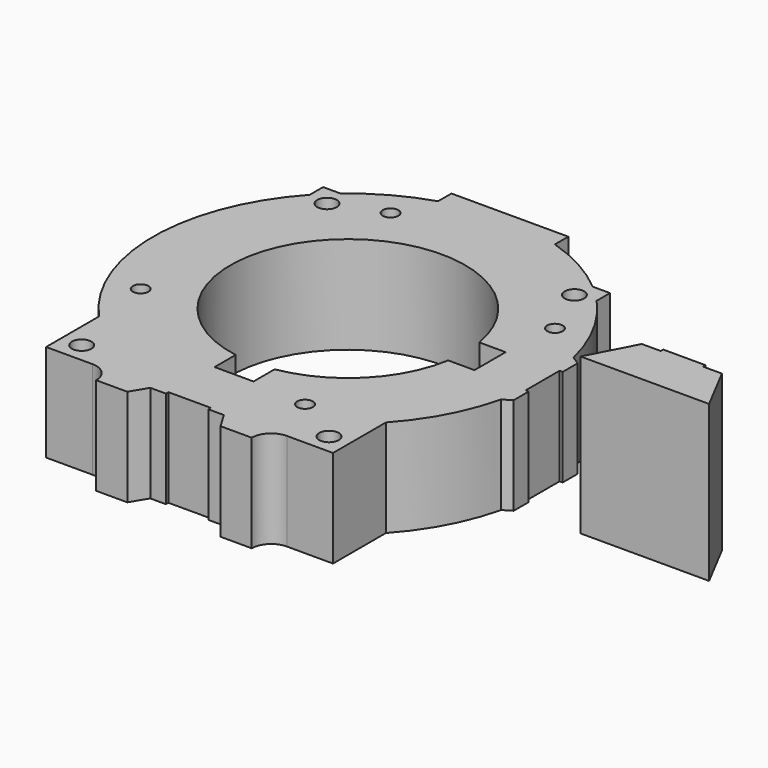
from build123d import *

# Parameters (mm, degrees)
F0_R     = 2.5
F0_R_2   = 2
F1_DEPTH = 25
F2_DEPTH = 40


with BuildPart() as f1:
    # F0 (on Top) → F1 (new body)
    with BuildSketch(Plane.XY):
        with BuildLine():
            Line((36.83, -50.8), (36.83, -33.816432))
            ThreePointArc((36.83, -33.816432), (44.151907, -23.465061), (48.634649, -11.604781))
            Line((48.634649, -11.604781), (50.8, -10.279))
            Line((50.8, -10.279), (50.8, -5.445))
            Line((50.8, -5.445), (50, -5.445))
            Line((50, -5.445), (50, 0))
            Line((50, 0), (50, 5.445))
            Line((50, 5.445), (50.8, 5.445))
            Line((50.8, 5.445), (50.8, 10.279))
            Line((50.8, 10.279), (48.634649, 11.604781))
            ThreePointArc((48.634649, 11.604781), (44.151907, 23.465061), (36.83, 33.816432))
            Line((36.83, 33.816432), (36.83, 38.1))
            Line((36.83, 38.1), (32.378851, 38.1))
            ThreePointArc((32.378851, 38.1), (24.170525, 43.769689), (15, 47.69696))
            Line((15, 47.69696), (15, 52))
            Line((15, 52), (0, 52))
            Line((0, 52), (-15, 52))
            Line((-15, 52), (-15, 47.69696))
            ThreePointArc((-15, 47.69696), (-24.170525, 43.769689), (-32.378851, 38.1))
            Line((-32.378851, 38.1), (-36.83, 38.1))
            Line((-36.83, 38.1), (-36.83, 33.816432))
            ThreePointArc((-36.83, 33.816432), (-50, 0), (-36.83, -33.816432))
            Line((-36.83, -33.816432), (-36.83, -50.8))
            Line((-36.83, -50.8), (-24.968615, -50.8))
            ThreePointArc((-24.968615, -50.8), (-21.433081, -52.264466), (-19.968615, -55.8))
            Line((-19.968615, -55.8), (-11.968615, -55.8))
            Line((-11.968615, -55.8), (-9.445, -51.6))
            Line((-9.445, -51.6), (-5.445, -51.6))
            Line((-5.445, -51.6), (-5.445, -50.8))
            Line((-5.445, -50.8), (5.445, -50.8))
            Line((5.445, -50.8), (5.445, -51.6))
            Line((5.445, -51.6), (9.445, -51.6))
            Line((9.445, -51.6), (11.968615, -55.8))
            Line((11.968615, -55.8), (19.968615, -55.8))
            ThreePointArc((19.968615, -55.8), (21.433081, -52.264466), (24.968615, -50.8))
            Line((24.968615, -50.8), (36.83, -50.8))
        make_face()
        with Locations((-31.75, -45.72)):
            Circle(F0_R, mode=Mode.SUBTRACT)
        with Locations((19.249197, -37.778677)):
            Circle(F0_R_2, mode=Mode.SUBTRACT)
        with Locations((-37.778677, -19.249197)):
            Circle(F0_R_2, mode=Mode.SUBTRACT)
        with BuildLine():
            ThreePointArc((29.745191, -5), (21.328108, -21.328108), (5, -29.745191))
            Line((5, -29.745191), (5, -36.5125))
            Line((5, -36.5125), (0, -36.5125))
            Line((0, -36.5125), (-5, -36.5125))
            Line((-5, -36.5125), (-5, -29.745191))
            ThreePointArc((-5, -29.745191), (-21.328108, 21.328108), (29.745191, 5))
            Line((29.745191, 5), (36.5125, 5))
            Line((36.5125, 5), (36.5125, 0))
            Line((36.5125, 0), (36.5125, -5))
            Line((36.5125, -5), (29.745191, -5))
        make_face(mode=Mode.SUBTRACT)
        with Locations((31.75, -45.72)):
            Circle(F0_R, mode=Mode.SUBTRACT)
        with Locations((-31.75, 33.02)):
            Circle(F0_R, mode=Mode.SUBTRACT)
        with Locations((-19.249197, 37.778677)):
            Circle(F0_R_2, mode=Mode.SUBTRACT)
        with Locations((37.778677, 19.249197)):
            Circle(F0_R_2, mode=Mode.SUBTRACT)
        with Locations((31.75, 33.02)):
            Circle(F0_R, mode=Mode.SUBTRACT)
    extrude(amount=F1_DEPTH)


with BuildPart() as f2:
    # F0 (on Top) → F2 (new body)
    with BuildSketch(Plane.XY):
        Polygon((67.40487, -9.583034), (83.90487, -9.583034), (100.40487, -9.583034), (94.1837, 2.316966), (89.34987, 2.316966), (89.34987, 3.116966), (83.90487, 3.116966), (78.45987, 3.116966), (78.45987, 2.316966), (73.62604, 2.316966), align=None)
    extrude(amount=F2_DEPTH)


solid = Compound([f1.part, f2.part])
